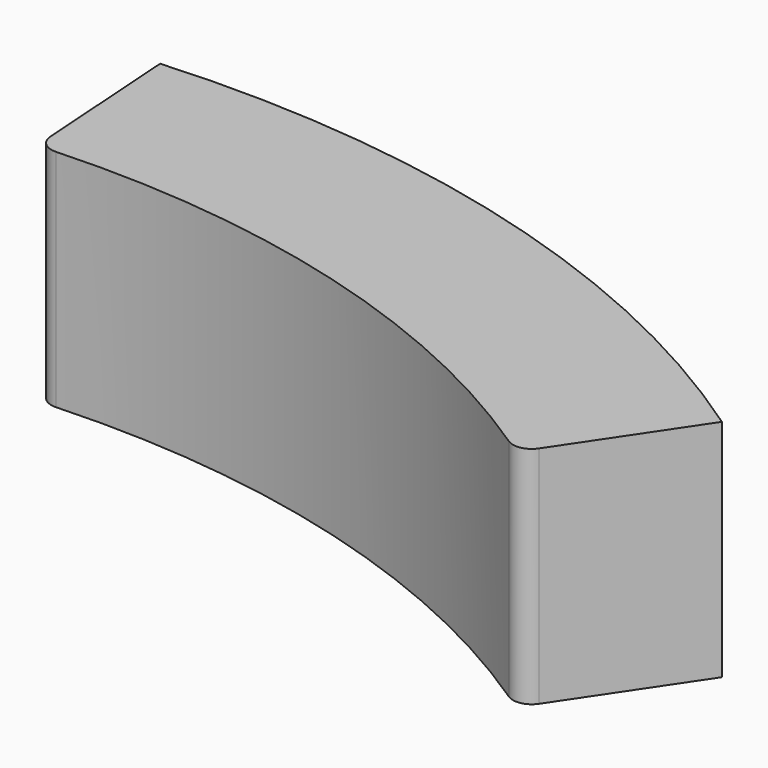
from build123d import *

# Parameters (mm, degrees)
F1_DEPTH = 609.6


with BuildPart() as f1:
    # F0 (on Top) → F1 (new body)
    with BuildSketch(Plane.XY):
        with BuildLine():
            ThreePointArc((-386.64031, -745.955031), (-1318.13918, -310.556754), (-2341.121483, -206.782896))
            Line((-2341.121483, -206.782896), (-2313.890176, -612.754492))
            ThreePointArc((-2313.890176, -612.754492), (-2297.003236, -647.278981), (-2260.7703, -660.096293))
            ThreePointArc((-2260.7703, -660.096293), (-1436.950161, -752.060449), (-683.25626, -1097.143819))
            ThreePointArc((-683.25626, -1097.143819), (-645.178614, -1104.718842), (-612.871213, -1083.189329))
            Line((-612.871213, -1083.189329), (-386.64031, -745.955031))
        make_face()
    extrude(amount=F1_DEPTH)


solid = f1.part
